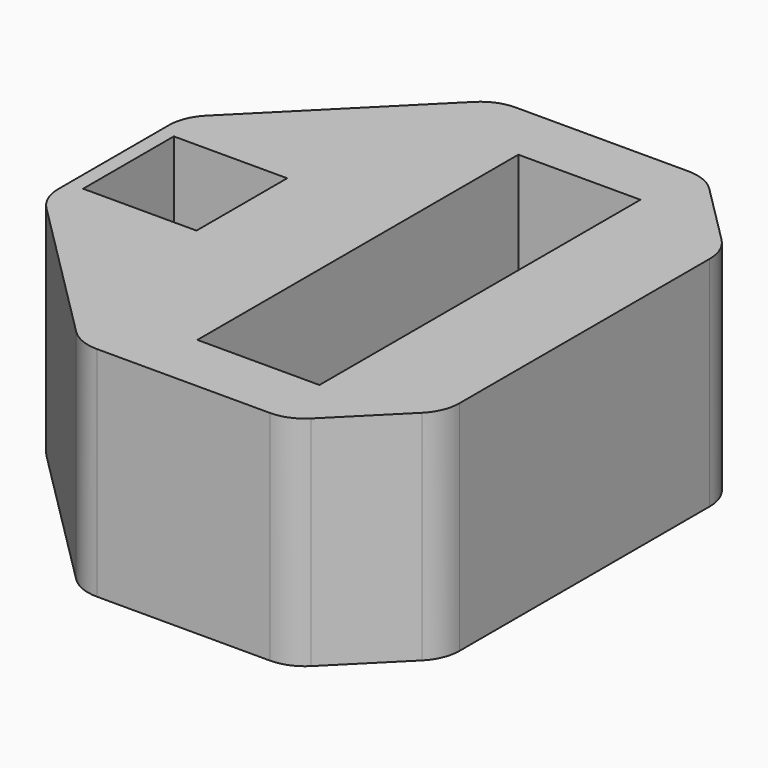
from build123d import *

# Parameters (mm, degrees)
F0_W     = 54
F0_H     = 60
F0_W_2   = 13
F0_H_2   = 13
F0_W_3   = 14
F0_H_3   = 46
F1_DEPTH = 25
F2_DEPTH = 21
F3_DEPTH = 23
F5_DEPTH = 4
F6_SIZE  = 20
F7_SIZE  = 20
F8_SIZE  = 10
F9_R     = 5


with BuildPart() as f1:
    # F0 (on Top) → F1 (new body)
    with BuildSketch(Plane.XY):
        with Locations((-8, 0)):
            Rectangle(F0_W, F0_H)
        with Locations((-26.8, 0)):
            Rectangle(F0_W_2, F0_H_2, mode=Mode.SUBTRACT)
        Rectangle(F0_W_3, F0_H_3, mode=Mode.SUBTRACT)
        with Locations((-26.8, 0)):
            Rectangle(F0_W_2, F0_H_2)
        Rectangle(F0_W_3, F0_H_3)
    extrude(amount=-F1_DEPTH)

    # F0 (on Top) → F2 (cut)
    with BuildSketch(Plane.XY):
        with Locations((-26.8, 0)):
            Rectangle(F0_W_2, F0_H_2)
    extrude(amount=-F2_DEPTH, mode=Mode.SUBTRACT)

    # F0 (on Top) → F3 (cut)
    with BuildSketch(Plane.XY):
        Rectangle(F0_W_3, F0_H_3)
    extrude(amount=-F3_DEPTH, mode=Mode.SUBTRACT)

    # F4 (on face) → F5 (cut)
    with BuildSketch(Plane(origin=(-35, 0, 0), x_dir=(0, -1, 0), z_dir=(-1, 0, 0))):
        with BuildLine():
            Line((-2, -25), (2, -25))
            Line((2, -25), (2, -17))
            ThreePointArc((2, -17), (0, -19), (-2, -17))
            Line((-2, -17), (-2, -25))
        make_face()
        with BuildLine():
            ThreePointArc((-2, -17), (0, -19), (2, -17))
            Line((2, -17), (-2, -17))
        make_face()
        with BuildLine():
            Line((-2, -17), (2, -17))
            ThreePointArc((2, -17), (0, -15), (-2, -17))
        make_face()
    extrude(amount=-F5_DEPTH, mode=Mode.SUBTRACT)

    # F6
    f6_edges = [f1.edges().sort_by_distance(p)[0] for p in [
        (-35, 30, -12.5),
    ]]
    chamfer(f6_edges, length=F6_SIZE)

    # F7
    f7_edges = [f1.edges().sort_by_distance(p)[0] for p in [
        (-35, -30, -12.5),
    ]]
    chamfer(f7_edges, length=F7_SIZE)

    # F8
    f8_edges = [f1.edges().sort_by_distance(p)[0] for p in [
        (19, -30, -12.5),
        (19, 30, -12.5),
    ]]
    chamfer(f8_edges, length=F8_SIZE)

    # F9
    f9_edges = [f1.edges().sort_by_distance(p)[0] for p in [
        (-35, 10, -12.5),
        (-35, -10, -12.5),
        (-15, -30, -12.5),
        (9, -30, -12.5),
        (19, -20, -12.5),
        (19, 20, -12.5),
        (9, 30, -12.5),
        (-15, 30, -12.5),
    ]]
    fillet(f9_edges, radius=F9_R)


solid = f1.part
